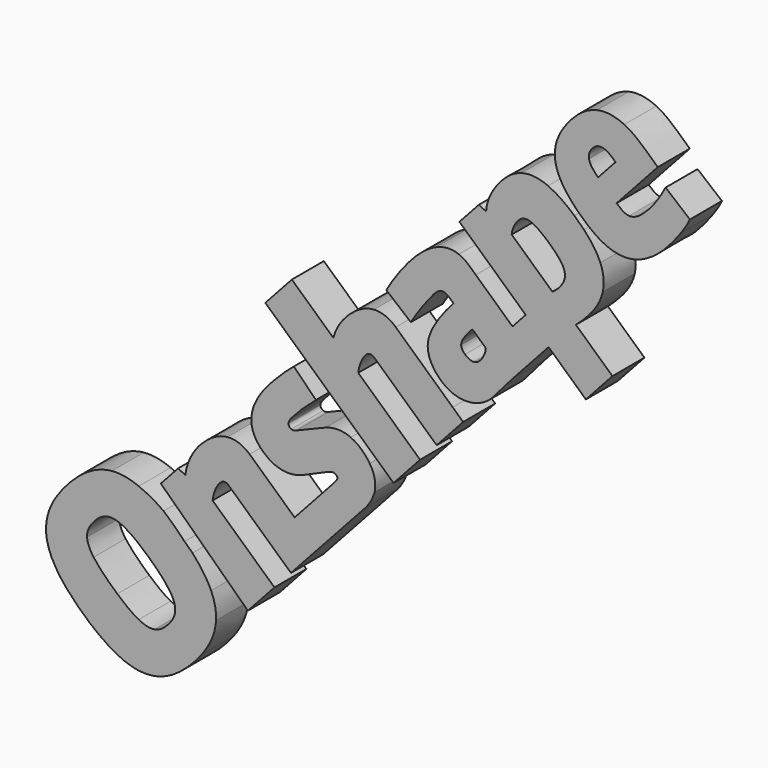
from build123d import *

# Parameters (mm, degrees)
F1_DEPTH = 25.4
F2_SCALE = 0.1


with BuildPart() as f1:
    # F0 (on Front) → F1 (new body)
    with BuildSketch(Plane.XZ):
        with BuildLine():
            add(Edge.make_bspline(
                [(-186.3335795772, -141.8998780122), (-182.3203460081, -135.5828726912), (-177.270055196, -129.9400571625), (-171.6060893213, -125.060540997)],
                knots=[0, 0, 0, 0, 1, 1, 1, 1], degree=3))
            add(Edge.make_bspline(
                [(-192.4062548026, -163.131805546), (-192.8977409931, -155.6106456725), (-190.3106596616, -148.1958110737), (-186.3335795772, -141.8998780122)],
                knots=[0, 0, 0, 0, 1, 1, 1, 1], degree=3))
            add(Edge.make_bspline(
                [(-186.1214083581, -181.2855566458), (-189.5246722325, -175.8111231187), (-192.02433604, -169.6204957792), (-192.4062548026, -163.131805546)],
                knots=[0, 0, 0, 0, 1, 1, 1, 1], degree=3))
            add(Edge.make_bspline(
                [(-172.0103726068, -198.2505024193), (-177.2091531801, -193.0402237145), (-182.2490226227, -187.5793476159), (-186.1214083581, -181.2855566458)],
                knots=[0, 0, 0, 0, 1, 1, 1, 1], degree=3))
            Line((-172.0103726068, -198.2505024193), (-164.8564078974, -204.7719595877))
            add(Edge.make_bspline(
                [(-137.367214436, -220.6926028721), (-147.8042508119, -218.0434983405), (-156.6891780706, -211.529390673), (-164.8564078974, -204.7719595877)],
                knots=[0, 0, 0, 0, 1, 1, 1, 1], degree=3))
            add(Edge.make_bspline(
                [(-123.8261235177, -221.2394306275), (-128.309722733, -222.0643705763), (-132.9557423877, -221.7963564173), (-137.367214436, -220.6926028721)],
                knots=[0, 0, 0, 0, 1, 1, 1, 1], degree=3))
            add(Edge.make_bspline(
                [(-107.5454284954, -213.6036837153), (-112.3283612391, -217.2798646679), (-117.8461070759, -220.1719548441), (-123.8261235177, -221.2394306275)],
                knots=[0, 0, 0, 0, 1, 1, 1, 1], degree=3))
            add(Edge.make_bspline(
                [(-93.46289911, -199.1723536193), (-97.552023663, -204.5206520123), (-102.2082548964, -209.4819701366), (-107.5454284954, -213.6036837153)],
                knots=[0, 0, 0, 0, 1, 1, 1, 1], degree=3))
            add(Edge.make_bspline(
                [(-84.5361900519, -177.3726127464), (-84.9521418769, -185.398702524), (-88.7038509466, -192.8494770242), (-93.46289911, -199.1723536193)],
                knots=[0, 0, 0, 0, 1, 1, 1, 1], degree=3))
            add(Edge.make_bspline(
                [(-87.6620913899, -161.7526501068), (-85.4610089257, -166.6298967979), (-84.2192902936, -172.0058447734), (-84.5361900519, -177.3726127464)],
                knots=[0, 0, 0, 0, 1, 1, 1, 1], degree=3))
            add(Edge.make_bspline(
                [(-99.4738299568, -144.5967820299), (-94.804184043, -149.751650096), (-90.5321288535, -155.3810525993), (-87.6620913896, -161.7526501071)],
                knots=[0, 0, 0, 0, 1, 1, 1, 1], degree=3))
            Line((-99.4738299568, -144.5967820299), (-104.5456169165, -139.7842371291))
            add(Edge.make_bspline(
                [(-117.805161024, -127.0958954942), (-113.1305007704, -131.0481075436), (-108.6808108014, -135.2697284302), (-104.5456169165, -139.7842371291)],
                knots=[0.1455251484, 0.1455251484, 0.1455251484, 0.1455251484, 1, 1, 1, 1], degree=3))
            add(Edge.make_bspline(
                [(-133.6496733332, -118.356015469), (-127.9851858279, -120.5066887798), (-122.7471910554, -123.6074225742), (-117.805161024, -127.0958954942)],
                knots=[0, 0, 0, 0, 0.8286120906, 0.8286120906, 0.8286120906, 0.8286120906], degree=3))
            add(Edge.make_bspline(
                [(-150.7351200425, -115.4185076774), (-144.9033816482, -114.8529074068), (-139.0211758381, -116.1147323266), (-133.6496733332, -118.356015469)],
                knots=[0, 0, 0, 0, 1, 1, 1, 1], degree=3))
            add(Edge.make_bspline(
                [(-171.6060893213, -125.060540997), (-165.7134872172, -120.0474328907), (-158.5569527162, -116.1016838058), (-150.7351200425, -115.4185076774)],
                knots=[0, 0, 0, 0, 1, 1, 1, 1], degree=3))
        make_face()
        with BuildLine():
            add(Edge.make_bspline(
                [(-164.0215183566, -149.8879219435), (-165.5515537441, -152.0886189167), (-166.5819251306, -154.7435311322), (-166.3995830889, -157.4583048079)],
                knots=[0, 0, 0, 0, 1, 1, 1, 1], degree=3))
            add(Edge.make_bspline(
                [(-154.743403467, -142.0748337897), (-158.6810122463, -143.4055337395), (-161.6338755153, -146.6172679524), (-164.0215183566, -149.8879219435)],
                knots=[0, 0, 0, 0, 1, 1, 1, 1], degree=3))
            add(Edge.make_bspline(
                [(-143.3677223564, -143.892725597), (-146.8066306191, -142.0979066173), (-150.9079068405, -140.8279853856), (-154.743403467, -142.0748337897)],
                knots=[0, 0, 0, 0, 1, 1, 1, 1], degree=3))
            add(Edge.make_bspline(
                [(-127.0946850663, -156.1281694835), (-132.1733372482, -151.6309657995), (-137.3301342263, -147.074177733), (-143.3677223564, -143.892725597)],
                knots=[0, 0, 0, 0, 1, 1, 1, 1], degree=3))
            add(Edge.make_bspline(
                [(-113.8781215962, -170.5235619133), (-117.5564882196, -165.1098760882), (-122.3422651061, -160.5808771006), (-127.0946850663, -156.1281694835)],
                knots=[0, 0, 0, 0, 1, 1, 1, 1], degree=3))
            add(Edge.make_bspline(
                [(-110.4685775328, -180.8476245359), (-110.1361535452, -177.1047853651), (-111.8674738828, -173.5618234489), (-113.8781215962, -170.5235619133)],
                knots=[0, 0, 0, 0, 1, 1, 1, 1], degree=3))
            add(Edge.make_bspline(
                [(-115.2231336412, -189.8760602981), (-112.9161187251, -187.356300394), (-110.7699248798, -184.3569981787), (-110.4685775328, -180.8476245359)],
                knots=[0, 0, 0, 0, 1, 1, 1, 1], degree=3))
            add(Edge.make_bspline(
                [(-123.5803878315, -195.1346117159), (-120.2234156528, -194.5635122299), (-117.476952996, -192.3004406785), (-115.2231336412, -189.8760602981)],
                knots=[0, 0, 0, 0, 1, 1, 1, 1], degree=3))
            add(Edge.make_bspline(
                [(-133.6225030578, -192.9079961962), (-130.565882574, -194.5056569402), (-127.0712314405, -195.7419830033), (-123.5803878315, -195.1346117159)],
                knots=[0, 0, 0, 0, 1, 1, 1, 1], degree=3))
            add(Edge.make_bspline(
                [(-147.2206417553, -182.946734793), (-142.9744392042, -186.6266600712), (-138.6015269799, -190.2523054826), (-133.6225030578, -192.9079961962)],
                knots=[0, 0, 0, 0, 1, 1, 1, 1], degree=3))
            add(Edge.make_bspline(
                [(-162.2234482454, -167.3685284771), (-157.953144679, -173.2135168292), (-152.5781992224, -178.1240706624), (-147.2206417553, -182.946734793)],
                knots=[0, 0, 0, 0, 1, 1, 1, 1], degree=3))
            add(Edge.make_bspline(
                [(-166.3995830889, -157.4583048079), (-166.1994168481, -161.1295119614), (-164.3012257319, -164.4361438247), (-162.2234482454, -167.3685284771)],
                knots=[0, 0, 0, 0, 1, 1, 1, 1], degree=3))
        make_face(mode=Mode.SUBTRACT)
    extrude(amount=F1_DEPTH)


with BuildPart() as f1b:
    # F0 (on Front) → F1, piece 2 (new body)
    with BuildSketch(Plane.XZ):
        with BuildLine():
            add(Edge.make_bspline(
                [(-104.0269171952, -102.5186534681), (-103.0185363732, -94.5344927855), (-99.1493138182, -86.9985430961), (-93.4138511594, -81.3759628132)],
                knots=[0, 0, 0, 0, 1, 1, 1, 1], degree=3))
            add(Edge.make_bspline(
                [(-108.59685638, -100.2721389629), (-107.0716003678, -101.0165961091), (-105.5526308686, -101.7740197126), (-104.0269171952, -102.5186534681)],
                knots=[0, 0, 0, 0, 1, 1, 1, 1], degree=3))
            add(Edge.make_bspline(
                [(-119.590771829, -112.333019437), (-115.9291670484, -108.3100975005), (-112.2616458663, -104.2924722261), (-108.59685638, -100.2721389629)],
                knots=[0.1099640002, 0.1099640002, 0.1099640002, 0.1099640002, 1, 1, 1, 1], degree=3))
            Line((-119.590771829, -112.333019437), (-64.3396623697, -165.4213721077))
            add(Edge.make_bspline(
                [(-47.4709335416, -146.9139282616), (-53.0905692269, -153.0862210673), (-58.7165407457, -159.2525319946), (-64.3396623697, -165.4213721077)],
                knots=[0, 0, 0, 0, 1, 1, 1, 1], degree=3))
            add(Edge.make_bspline(
                [(-86.7298018348, -111.1179996691), (-73.648909343, -123.0558711123), (-60.553234157, -134.9774884041), (-47.4709335416, -146.9139282616)],
                knots=[0, 0, 0, 0, 1, 1, 1, 1], degree=3))
            add(Edge.make_bspline(
                [(-81.2850453813, -99.0584633088), (-84.7007868402, -102.0865296901), (-86.1179528697, -106.7275708284), (-86.7298018348, -111.1179996691)],
                knots=[0, 0, 0, 0, 1, 1, 1, 1], degree=3))
            add(Edge.make_bspline(
                [(-76.6726321721, -99.2502335974), (-77.9134525607, -98.0427145572), (-79.9865889674, -97.8156124837), (-81.2850453813, -99.0584633088)],
                knots=[0, 0, 0, 0, 1, 1, 1, 1], degree=3))
            add(Edge.make_bspline(
                [(-36.9794918869, -135.4070845852), (-50.2197562262, -123.3650381783), (-63.4200222422, -111.2777567464), (-76.6726321721, -99.2502335974)],
                knots=[0, 0, 0, 0, 1, 1, 1, 1], degree=3))
            Line((-36.9794918869, -135.4070845852), (10.7094415482, -83.1542452068))
            ThreePointArc((10.7094415482, -83.1542452068), (13.9703165263, -78.3388120414), (16.1502305418, -72.9471817613))
            add(Edge.make_bspline(
                [(12.9697452164, -57.9974548358), (16.0202117772, -62.279915093), (17.1347231003, -67.7984244911), (16.1502305418, -72.9471817613)],
                knots=[0, 0, 0, 0, 0.9979912935, 0.9979912935, 0.9979912935, 0.9979912935], degree=3))
            add(Edge.make_bspline(
                [(0.924032819, -47.2817378042), (5.8801941055, -49.5430221709), (10.0758220833, -53.4022069652), (12.9697452164, -57.9974548357)],
                knots=[0, 0, 0, 0, 1, 1, 1, 1], degree=3))
            add(Edge.make_bspline(
                [(-15.2458249326, -47.1339931031), (-10.1069912559, -45.0981277965), (-4.1491711632, -44.9684755849), (0.924032819, -47.2817378042)],
                knots=[0, 0, 0, 0, 1, 1, 1, 1], degree=3))
            add(Edge.make_bspline(
                [(-33.6556794319, -54.717996145), (-27.5106040717, -52.2115212434), (-21.3954688882, -49.6303229943), (-15.2458249326, -47.1339931031)],
                knots=[0, 0, 0, 0, 1, 1, 1, 1], degree=3))
            add(Edge.make_bspline(
                [(-36.8228657697, -54.9479987426), (-35.8032251259, -55.4275546024), (-34.6491914766, -55.1042494958), (-33.6556794319, -54.717996145)],
                knots=[0, 0, 0, 0, 1, 1, 1, 1], degree=3))
            add(Edge.make_bspline(
                [(-38.6147396534, -52.3473853685), (-38.7425803678, -53.5197140492), (-37.7763536491, -54.4487340103), (-36.8228657697, -54.9479987426)],
                knots=[0, 0, 0, 0, 1, 1, 1, 1], degree=3))
            add(Edge.make_bspline(
                [(-36.8430255031, -48.906902719), (-37.6114530111, -49.9379982343), (-38.4621736965, -51.0309024775), (-38.6147396534, -52.3473853685)],
                knots=[0, 0, 0, 0, 1, 1, 1, 1], degree=3))
            add(Edge.make_bspline(
                [(-30.8488329047, -42.4606257324), (-32.9173448256, -44.541545258), (-35.0071967403, -46.6147316278), (-36.8430255031, -48.906902719)],
                knots=[0, 0, 0, 0, 1, 1, 1, 1], degree=3))
            add(Edge.make_bspline(
                [(-21.0882548771, -33.5620825793), (-24.5317304404, -36.3123865643), (-27.7198080269, -39.3634912938), (-30.8488329047, -42.4606257324)],
                knots=[0, 0, 0, 0, 1, 1, 1, 1], degree=3))
            add(Edge.make_bspline(
                [(-35.1705129202, -19.4744117034), (-30.4491652979, -24.1424071602), (-25.7799480067, -28.8638940814), (-21.0882548771, -33.5620825793)],
                knots=[0, 0, 0, 0, 1, 1, 1, 1], degree=3))
            add(Edge.make_bspline(
                [(-48.0307501863, -31.5689320305), (-43.9503212717, -27.3279028827), (-39.7571351701, -23.1729235766), (-35.1705129202, -19.4744117034)],
                knots=[0, 0, 0, 0, 1, 1, 1, 1], degree=3))
            add(Edge.make_bspline(
                [(-60.1871607722, -48.8455733716), (-57.4784873138, -42.2656485442), (-52.8956363916, -36.6756295909), (-48.0307501863, -31.5689320305)],
                knots=[0, 0, 0, 0, 1, 1, 1, 1], degree=3))
            add(Edge.make_bspline(
                [(-61.4595853021, -62.9346237377), (-62.7775570723, -58.2739294958), (-62.0165609067, -53.2593049183), (-60.1871607722, -48.8455733716)],
                knots=[0, 0, 0, 0, 1, 1, 1, 1], degree=3))
            add(Edge.make_bspline(
                [(-51.021358089, -76.2675240017), (-55.747564631, -73.0642008583), (-59.8927762739, -68.5344682232), (-61.4595853021, -62.9346237377)],
                knots=[0, 0, 0, 0, 1, 1, 1, 1], degree=3))
            add(Edge.make_bspline(
                [(-34.9925115244, -79.829251839), (-40.5383402923, -80.7998364986), (-46.3801910278, -79.4204096905), (-51.021358089, -76.2675240017)],
                knots=[0, 0, 0, 0, 1, 1, 1, 1], degree=3))
            add(Edge.make_bspline(
                [(-24.2087641288, -75.9698822801), (-27.718336833, -77.4683672983), (-31.1691890848, -79.2801478392), (-34.9925115244, -79.829251839)],
                knots=[0, 0, 0, 0, 1, 1, 1, 1], degree=3))
            add(Edge.make_bspline(
                [(-13.6338414919, -71.3511249188), (-17.1646529725, -72.8778854639), (-20.6834322163, -74.4319400757), (-24.2087641288, -75.9698822801)],
                knots=[0, 0, 0, 0, 1, 1, 1, 1], degree=3))
            add(Edge.make_bspline(
                [(-9.1248883004, -70.7501542726), (-10.6270138976, -70.196362966), (-12.2263606118, -70.7974102776), (-13.6338414919, -71.3511249188)],
                knots=[0, 0, 0, 0, 1, 1, 1, 1], degree=3))
            add(Edge.make_bspline(
                [(-7.5944507692, -73.3719032419), (-7.123755466, -72.2532086419), (-8.1530600304, -71.1514802885), (-9.1248883004, -70.7501542726)],
                knots=[0, 0, 0, 0, 1, 1, 1, 1], degree=3))
            add(Edge.make_bspline(
                [(-10.0578751822, -76.6729419076), (-9.1892369941, -75.6179552351), (-8.1340313249, -74.6533718099), (-7.5944507692, -73.3719032419)],
                knots=[0, 0, 0, 0, 1, 1, 1, 1], degree=3))
            Line((-10.0578751822, -76.6729419076), (-34.6424075458, -103.6469479196))
            add(Edge.make_bspline(
                [(-63.2052856346, -77.6181457004), (-53.6774546321, -86.2867116152), (-44.1667235328, -94.974299853), (-34.6424075458, -103.6469479196)],
                knots=[0, 0, 0, 0, 1, 1, 1, 1], degree=3))
            add(Edge.make_bspline(
                [(-77.2860778161, -72.5766296647), (-72.1230794302, -72.0218582436), (-67.0158740744, -74.2321422731), (-63.2052856346, -77.6181457004)],
                knots=[0, 0, 0, 0, 1, 1, 1, 1], degree=3))
            add(Edge.make_bspline(
                [(-93.4138511594, -81.3759628132), (-89.0461607337, -77.0175269006), (-83.5836712601, -73.2055792197), (-77.2860778161, -72.5766296647)],
                knots=[0, 0, 0, 0, 1, 1, 1, 1], degree=3))
        make_face()
    extrude(amount=F1_DEPTH)


with BuildPart() as f1c:
    # F0 (on Front) → F1, piece 3 (new body)
    with BuildSketch(Plane.XZ):
        with BuildLine():
            Line((-36.4250571252, 28.7122926186), (-53.2699459982, 10.2336401612))
            add(Edge.make_bspline(
                [(21.5105371095, -57.9324563384), (-3.420229409, -35.2147307047), (-28.3420107883, -12.4872017453), (-53.2699459982, 10.2336401612)],
                knots=[0.0814034481, 0.0814034481, 0.0814034481, 0.0814034481, 1, 1, 1, 1], degree=3))
            add(Edge.make_bspline(
                [(28.138642988, -63.9717571526), (25.9291967779, -61.9587415173), (23.7198316636, -59.9456374206), (21.5105371095, -57.9324563384)],
                knots=[0, 0, 0, 0, 0.0814034481, 0.0814034481, 0.0814034481, 0.0814034481], degree=3))
            add(Edge.make_bspline(
                [(44.9779113856, -45.4975359434), (39.3687292935, -51.6594923733), (33.7536535774, -57.8156981879), (28.138642988, -63.9717571526)],
                knots=[0, 0, 0, 0, 1, 1, 1, 1], degree=3))
            add(Edge.make_bspline(
                [(5.7269256012, -9.706043357), (18.8030225776, -21.644801849), (31.8992598138, -33.5614667039), (44.9779113856, -45.4975359434)],
                knots=[0, 0, 0, 0, 1, 1, 1, 1], degree=3))
            add(Edge.make_bspline(
                [(9.6864406527, 0.8438324176), (7.3678740804, -2.1904298278), (6.2138148453, -5.9593502377), (5.7269256012, -9.706043357)],
                knots=[0, 0, 0, 0, 1, 1, 1, 1], degree=3))
            add(Edge.make_bspline(
                [(13.1038096675, 3.212783877), (11.6434991606, 3.0747440047), (10.5606034059, 1.9130987848), (9.6864406527, 0.8438324176)],
                knots=[0, 0, 0, 0, 1, 1, 1, 1], degree=3))
            add(Edge.make_bspline(
                [(16.5618360749, 1.5336855621), (15.6042185734, 2.3823028838), (14.4648092444, 3.3164201154), (13.1038096675, 3.212783877)],
                knots=[0, 0, 0, 0, 1, 1, 1, 1], degree=3))
            add(Edge.make_bspline(
                [(55.4977060871, -33.9576287264), (42.5151494845, -22.1314299711), (29.5391328021, -10.2981324039), (16.5618360749, 1.5336855621)],
                knots=[0, 0, 0, 0, 1, 1, 1, 1], degree=3))
            add(Edge.make_bspline(
                [(72.3287713075, -15.5023599687), (66.7137052679, -21.6502227491), (61.1128632922, -27.8105708164), (55.4977060871, -33.9576287264)],
                knots=[0, 0, 0, 0, 1, 1, 1, 1], degree=3))
            Line((72.3287713075, -15.5023599687), (65.7117416995, -9.4442351376))
            add(Edge.make_bspline(
                [(29.5212275614, 23.5566762322), (41.573166052, 12.5438873086), (53.6623053651, 1.5712339484), (65.7117416995, -9.4442351376)],
                knots=[0, 0, 0, 0, 0.8451828726, 0.8451828726, 0.8451828726, 0.8451828726], degree=3))
            add(Edge.make_bspline(
                [(15.6732058771, 28.8904126535), (20.8004358997, 29.2731180225), (25.8056420173, 26.9815947282), (29.5212275618, 23.5566762351)],
                knots=[0, 0, 0, 0, 1, 1, 1, 1], degree=3))
            add(Edge.make_bspline(
                [(0.3373542449, 21.294500442), (4.5650562877, 25.1945775808), (9.799498997, 28.4885543317), (15.6732058771, 28.8904126535)],
                knots=[0, 0, 0, 0, 1, 1, 1, 1], degree=3))
            add(Edge.make_bspline(
                [(-10.0808760567, 4.7080523179), (-8.4427793006, 11.1505946086), (-4.5174240041, 16.8338139857), (0.3373542449, 21.294500442)],
                knots=[0, 0, 0, 0, 1, 1, 1, 1], degree=3))
            add(Edge.make_bspline(
                [(-36.4250571252, 28.7122926186), (-27.6419796964, 20.7127010925), (-18.8730551548, 12.6976217126), (-10.0808760567, 4.7080523179)],
                knots=[0, 0, 0, 0, 1, 1, 1, 1], degree=3))
        make_face()
    extrude(amount=F1_DEPTH)


with BuildPart() as f1d:
    # F0 (on Front) → F1, piece 4 (new body)
    with BuildSketch(Plane.XZ):
        with BuildLine():
            add(Edge.make_bspline(
                [(23.538676683, 42.3525661458), (27.5296645436, 49.4522063195), (32.3187107387, 56.0870698989), (37.5662704103, 62.3084268847)],
                knots=[0, 0, 0, 0, 1, 1, 1, 1], degree=3))
            add(Edge.make_bspline(
                [(39.0965605813, 29.440551497), (33.9110586987, 33.7452488712), (28.7243910577, 38.0483280925), (23.538676683, 42.3525661458)],
                knots=[0, 0, 0, 0, 1, 1, 1, 1], degree=3))
            add(Edge.make_bspline(
                [(53.7398646176, 49.9217051209), (48.2573458058, 43.5534104796), (43.4273776427, 36.6359369506), (39.0965605813, 29.440551497)],
                knots=[0, 0, 0, 0, 1, 1, 1, 1], degree=3))
            add(Edge.make_bspline(
                [(59.970694713, 53.2699829217), (57.4009093156, 53.670362841), (55.3476619148, 51.6294889319), (53.7398646176, 49.9217051209)],
                knots=[0, 0, 0, 0, 1, 1, 1, 1], degree=3))
            add(Edge.make_bspline(
                [(66.1519658085, 48.7518940263), (64.1722302441, 50.3280007371), (62.5734874327, 52.7099055558), (59.970694713, 53.2699829217)],
                knots=[0, 0, 0, 0, 1, 1, 1, 1], degree=3))
            add(Edge.make_bspline(
                [(53.6001252992, 31.7878441426), (56.9973257314, 37.9752751189), (61.422795787, 43.5358459998), (66.1519658085, 48.7518940263)],
                knots=[0, 0, 0, 0, 1, 1, 1, 1], degree=3))
            add(Edge.make_bspline(
                [(49.948665804, 17.6446589816), (49.3012395752, 22.6301194425), (51.3106837741, 27.4742879909), (53.6001252992, 31.7878441426)],
                knots=[0, 0, 0, 0, 1, 1, 1, 1], degree=3))
            add(Edge.make_bspline(
                [(59.5176281341, 2.0162507766), (54.7068241261, 5.9182004534), (50.6954994698, 11.3507558321), (49.948665804, 17.6446589816)],
                knots=[0, 0, 0, 0, 1, 1, 1, 1], degree=3))
            ThreePointArc((59.5176281341, 2.0162507766), (75.787713247, -3.174741597), (91.1100336458, 4.36770953))
            add(Edge.make_bspline(
                [(103.6178427131, 18.8131025417), (99.5584111208, 13.9050622716), (95.5138886757, 8.9732232022), (91.1100336458, 4.36770953)],
                knots=[0, 0, 0, 0, 1, 1, 1, 1], degree=3))
            add(Edge.make_bspline(
                [(126.5594451654, 43.9887541749), (118.9110271994, 35.5976590498), (111.2531060555, 27.2153300021), (103.6178427135, 18.8131025446)],
                knots=[0, 0, 0, 0, 1, 1, 1, 1], degree=3))
            add(Edge.make_bspline(
                [(150.216579711, 22.4253278451), (142.3290363285, 29.6112778969), (134.4458492298, 36.8017805235), (126.5594451654, 43.9887541749)],
                knots=[0, 0, 0, 0, 1, 1, 1, 1], degree=3))
            add(Edge.make_bspline(
                [(167.0896311154, 40.9376643214), (161.4700045848, 34.762063672), (155.8424300773, 28.5942582069), (150.216579711, 22.4253278451)],
                knots=[0, 0, 0, 0, 1, 1, 1, 1], degree=3))
            add(Edge.make_bspline(
                [(143.9026360767, 62.0706275177), (151.6341054639, 55.0291176983), (159.3585607873, 47.979875827), (167.0896311154, 40.9376643214)],
                knots=[0, 0, 0, 0, 1, 1, 1, 1], degree=3))
            add(Edge.make_bspline(
                [(151.8182472276, 69.863525628), (149.3245100739, 67.1241915703), (146.7251293144, 64.4714341444), (143.9026360767, 62.0706275177)],
                knots=[0, 0, 0, 0, 1, 1, 1, 1], degree=3))
            add(Edge.make_bspline(
                [(160.9542654012, 85.9400980387), (159.5589053878, 79.82736519), (156.0107693682, 74.4309288292), (151.8182472276, 69.863525628)],
                knots=[0, 0, 0, 0, 1, 1, 1, 1], degree=3))
            add(Edge.make_bspline(
                [(159.3987165906, 101.8297493453), (161.4958026808, 96.8526339354), (162.1970978578, 91.2264947144), (160.9542654012, 85.9400980387)],
                knots=[0, 0, 0, 0, 1, 1, 1, 1], degree=3))
            add(Edge.make_bspline(
                [(149.0379829463, 116.8894376304), (153.2631928846, 112.4450749721), (157.0245813571, 107.5084853597), (159.3987165901, 101.8297493458)],
                knots=[0.188768465, 0.188768465, 0.188768465, 0.188768465, 1, 1, 1, 1], degree=3))
            Line((149.0379829463, 116.8894376304), (143.0024300827, 122.6735786375))
            add(Edge.make_bspline(
                [(126.1917991942, 134.005016435), (132.4353448476, 131.2836371984), (137.9212454453, 127.1753277882), (143.0024300827, 122.6735786375)],
                knots=[0, 0, 0, 0, 0.8324269042, 0.8324269042, 0.8324269042, 0.8324269042], degree=3))
            add(Edge.make_bspline(
                [(109.3715453434, 135.6610235984), (114.941701507, 137.2842822553), (120.9553851598, 136.2904668225), (126.1917991951, 134.0050164342)],
                knots=[0, 0, 0, 0, 1, 1, 1, 1], degree=3))
            add(Edge.make_bspline(
                [(93.3174877906, 123.0932798658), (97.3554584774, 128.6215985238), (102.6226536278, 133.7501757477), (109.3715453434, 135.6610235984)],
                knots=[0, 0, 0, 0, 1, 1, 1, 1], degree=3))
            add(Edge.make_bspline(
                [(86.8766596457, 106.8861957139), (87.2366746082, 112.8080857005), (89.8949225278, 118.3413626357), (93.3174877906, 123.0932798658)],
                knots=[0, 0, 0, 0, 1, 1, 1, 1], degree=3))
            add(Edge.make_bspline(
                [(82.2998365971, 109.1314928451), (83.8217123646, 108.3765410232), (85.3461982982, 107.6261868736), (86.8766596457, 106.8861957139)],
                knots=[0, 0, 0, 0, 1, 1, 1, 1], degree=3))
            add(Edge.make_bspline(
                [(69.9529200295, 95.5935877654), (74.0670705087, 100.1069150936), (78.1751076043, 104.6264683251), (82.2998365971, 109.1314928451)],
                knots=[0, 0, 0, 0, 1, 1, 1, 1], degree=3))
            add(Edge.make_bspline(
                [(112.0203512176, 57.237686301), (98.0034907779, 70.0291858642), (83.9719690843, 82.8045267913), (69.9529200295, 95.5935877654)],
                knots=[0, 0, 0, 0, 1, 1, 1, 1], degree=3))
            add(Edge.make_bspline(
                [(103.6488648894, 48.0542605404), (106.4382788734, 51.1154603198), (109.228740093, 54.1765646978), (112.0203512176, 57.237686301)],
                knots=[0, 0, 0, 0, 1, 1, 1, 1], degree=3))
            add(Edge.make_bspline(
                [(80.308229807, 69.326076974), (88.0891123415, 62.2362576713), (95.8632358253, 55.1390237667), (103.6488648894, 48.0542605404)],
                knots=[0, 0, 0, 0, 1, 1, 1, 1], degree=3))
            add(Edge.make_bspline(
                [(69.6230947104, 77.3268750254), (73.8844789049, 75.7347189646), (76.9780230464, 72.2634819802), (80.308229807, 69.326076974)],
                knots=[0, 0, 0, 0, 1, 1, 1, 1], degree=3))
            add(Edge.make_bspline(
                [(54.9167885421, 76.466944447), (59.4733222715, 78.5601484726), (64.8852842694, 79.2424578963), (69.6230947104, 77.3268750254)],
                knots=[0, 0, 0, 0, 1, 1, 1, 1], degree=3))
            add(Edge.make_bspline(
                [(37.5662704103, 62.3084268847), (42.4551695941, 67.9688595219), (48.0269148461, 73.3370781105), (54.9167885421, 76.466944447)],
                knots=[0, 0, 0, 0, 1, 1, 1, 1], degree=3))
        make_face()
        with BuildLine():
            add(Edge.make_bspline(
                [(72.951575649, 31.9197630655), (72.0041658071, 30.4850334673), (71.0977995725, 28.8886767087), (71.0786211774, 27.1236742316)],
                knots=[0, 0, 0, 0, 1, 1, 1, 1], degree=3))
            add(Edge.make_bspline(
                [(78.159998026, 38.2222682896), (76.3408788912, 36.1927445545), (74.4864105331, 34.1768506439), (72.951575649, 31.9197630655)],
                knots=[0, 0, 0, 0, 1, 1, 1, 1], degree=3))
            add(Edge.make_bspline(
                [(86.7018386042, 30.437326428), (83.8547561765, 33.0328256207), (81.0096410585, 35.6301058971), (78.159998026, 38.2222682896)],
                knots=[0, 0, 0, 0, 1, 1, 1, 1], degree=3))
            add(Edge.make_bspline(
                [(84.1308381813, 23.5794020401), (85.5458748425, 25.5907937622), (86.5623223863, 27.9585912215), (86.7018386042, 30.437326428)],
                knots=[0, 0, 0, 0, 1, 1, 1, 1], degree=3))
            add(Edge.make_bspline(
                [(78.9965725319, 20.2633947058), (81.1347076585, 20.41604581), (82.8930293581, 21.9329967698), (84.1308381813, 23.5794020401)],
                knots=[0, 0, 0, 0, 1, 1, 1, 1], degree=3))
            add(Edge.make_bspline(
                [(73.5361279609, 22.6251096207), (75.0333823977, 21.3050853456), (76.9179744758, 20.1191608845), (78.9965725319, 20.2633947058)],
                knots=[0, 0, 0, 0, 1, 1, 1, 1], degree=3))
            add(Edge.make_bspline(
                [(71.0786211774, 27.1236742316), (71.1218429512, 25.3366739281), (72.2655762686, 23.7862143664), (73.5361279609, 22.6251096207)],
                knots=[0, 0, 0, 0, 1, 1, 1, 1], degree=3))
        make_face(mode=Mode.SUBTRACT)
        with BuildLine():
            add(Edge.make_bspline(
                [(103.1263465188, 99.2389215292), (111.7427062582, 91.3981471718), (120.3444356475, 83.541323486), (128.9587999774, 75.6982093741)],
                knots=[0, 0, 0, 0, 1, 1, 1, 1], degree=3))
            add(Edge.make_bspline(
                [(108.6880772794, 109.6751219219), (105.4995983726, 107.1625449588), (103.5589343397, 103.2430178547), (103.1263465188, 99.2389215292)],
                knots=[0, 0, 0, 0, 1, 1, 1, 1], degree=3))
            add(Edge.make_bspline(
                [(114.8125290327, 110.5069294976), (112.7876227034, 111.2248250074), (110.4026685117, 111.0424907856), (108.6880772794, 109.6751219219)],
                knots=[0, 0, 0, 0, 1, 1, 1, 1], degree=3))
            add(Edge.make_bspline(
                [(124.01680527, 104.7175750569), (121.1979714104, 106.990368387), (118.2802054157, 109.3185303278), (114.8125290327, 110.5069294976)],
                knots=[0, 0, 0, 0, 1, 1, 1, 1], degree=3))
            add(Edge.make_bspline(
                [(133.7940050522, 95.0711551814), (130.9751010185, 98.6998313434), (127.5021314535, 101.750054619), (124.01680527, 104.7175750569)],
                knots=[0, 0, 0, 0, 1, 1, 1, 1], degree=3))
            add(Edge.make_bspline(
                [(136.9514700996, 87.3322793818), (136.9731785583, 90.2138491244), (135.4847612874, 92.8375056305), (133.7940050522, 95.0711551814)],
                knots=[0, 0, 0, 0, 1, 1, 1, 1], degree=3))
            add(Edge.make_bspline(
                [(134.00523318, 80.3196347735), (135.607447367, 82.3082911421), (136.9344963029, 84.713756061), (136.9514700996, 87.3322793818)],
                knots=[0, 0, 0, 0, 1, 1, 1, 1], degree=3))
            add(Edge.make_bspline(
                [(128.9587999774, 75.6982093741), (130.8897291439, 76.9313329391), (132.5540873125, 78.552499457), (134.00523318, 80.3196347735)],
                knots=[0, 0, 0, 0, 1, 1, 1, 1], degree=3))
        make_face(mode=Mode.SUBTRACT)
    extrude(amount=F1_DEPTH)


with BuildPart() as f1e:
    # F0 (on Front) → F1, piece 5 (new body)
    with BuildSketch(Plane.XZ):
        with BuildLine():
            add(Edge.make_bspline(
                [(132.2617095508, 162.2819686472), (134.2197131154, 167.4165396317), (137.4765159133, 171.9567563369), (141.1543174713, 175.9989167842)],
                knots=[0, 0, 0, 0, 1, 1, 1, 1], degree=3))
            add(Edge.make_bspline(
                [(131.3106048367, 147.0176666472), (129.9924222168, 152.0409479985), (130.3818512802, 157.4512731911), (132.2617095508, 162.2819686472)],
                knots=[0, 0, 0, 0, 1, 1, 1, 1], degree=3))
            add(Edge.make_bspline(
                [(142.016848746, 129.1300638473), (137.3253770171, 134.2872307058), (133.0769673367, 140.1735421964), (131.3106048367, 147.0176666472)],
                knots=[0, 0, 0, 0, 1, 1, 1, 1], degree=3))
            add(Edge.make_bspline(
                [(145.5593498003, 125.4784906307), (144.3514457135, 126.6715154589), (143.1722830883, 127.8925398925), (142.016848746, 129.1300638473)],
                knots=[0.7673008911, 0.7673008911, 0.7673008911, 0.7673008911, 1, 1, 1, 1], degree=3))
            Line((145.5593498003, 125.4784906307), (151.7636413621, 119.8794540659))
            add(Edge.make_bspline(
                [(158.6253947101, 115.0024722361), (156.2216463338, 116.4648554533), (153.9419774866, 118.1079095632), (151.7636413621, 119.8794540659)],
                knots=[0, 0, 0, 0, 0.3852391898, 0.3852391898, 0.3852391898, 0.3852391898], degree=3))
            add(Edge.make_bspline(
                [(175.9924895928, 109.9895755462), (169.8434575052, 109.708266654), (163.8284216281, 111.8559395118), (158.6253947101, 115.0024722361)],
                knots=[0, 0, 0, 0, 1, 1, 1, 1], degree=3))
            add(Edge.make_bspline(
                [(192.6480177942, 116.1673337139), (187.7685608732, 112.7172062757), (182.0331546743, 110.1947625488), (175.9924895928, 109.9895755462)],
                knots=[0, 0, 0, 0, 1, 1, 1, 1], degree=3))
            add(Edge.make_bspline(
                [(210.5510523319, 135.0568045731), (205.484125731, 127.9959687795), (199.7836145204, 121.2231347704), (192.6480177942, 116.1673337139)],
                knots=[0, 0, 0, 0, 1, 1, 1, 1], degree=3))
            add(Edge.make_bspline(
                [(216.2663128613, 144.4795414943), (214.7362521371, 141.1271708461), (212.6673185489, 138.0586421708), (210.5510523319, 135.0568045731)],
                knots=[0, 0, 0, 0, 1, 1, 1, 1], degree=3))
            add(Edge.make_bspline(
                [(200.8234102395, 157.2951269963), (205.9673194956, 153.018927578), (211.1262188452, 148.7607179561), (216.2663128613, 144.4795414943)],
                knots=[0, 0, 0, 0, 1, 1, 1, 1], degree=3))
            add(Edge.make_bspline(
                [(185.9133076927, 137.5486366796), (192.2431721073, 142.9560187226), (196.9054455582, 150.0200020679), (200.8234102395, 157.2951269963)],
                knots=[0, 0, 0, 0, 1, 1, 1, 1], degree=3))
            add(Edge.make_bspline(
                [(177.6331074186, 133.9377140232), (180.7942720185, 133.7202466981), (183.5868411132, 135.6228179163), (185.9133076927, 137.5486366796)],
                knots=[0, 0, 0, 0, 1, 1, 1, 1], degree=3))
            add(Edge.make_bspline(
                [(169.7597154672, 138.443669326), (172.042322866, 136.4783578324), (174.4834828224, 134.216666315), (177.6331074186, 133.9377140232)],
                knots=[0, 0, 0, 0, 1, 1, 1, 1], degree=3))
            add(Edge.make_bspline(
                [(195.8722968891, 167.0918164794), (187.1691007565, 157.5410778212), (178.4614872816, 147.9948814988), (169.7597154672, 138.443669326)],
                knots=[0, 0, 0, 0, 1, 1, 1, 1], degree=3))
            add(Edge.make_bspline(
                [(174.608694232, 183.966262787), (182.8884914414, 180.0136591321), (189.0687372178, 173.0364195587), (195.8722968891, 167.0918164794)],
                knots=[0, 0, 0, 0, 1, 1, 1, 1], degree=3))
            add(Edge.make_bspline(
                [(157.2016482331, 186.3680059079), (163.0554221012, 187.7660611945), (169.272280452, 186.6015041385), (174.608694232, 183.966262787)],
                knots=[0, 0, 0, 0, 1, 1, 1, 1], degree=3))
            add(Edge.make_bspline(
                [(141.1543174713, 175.9989167842), (145.4288358087, 180.7923776309), (150.8479307769, 184.8937514143), (157.2016482331, 186.3680059079)],
                knots=[0, 0, 0, 0, 1, 1, 1, 1], degree=3))
        make_face()
        with BuildLine():
            add(Edge.make_bspline(
                [(152.1993117139, 157.4490206464), (152.9549109975, 154.0101978289), (155.6141344832, 151.4564429889), (157.9589340409, 149.0086995711)],
                knots=[0, 0, 0, 0, 1, 1, 1, 1], degree=3))
            add(Edge.make_bspline(
                [(155.7335470215, 165.3260503613), (153.467705402, 163.4446046831), (151.5641496551, 160.5125136465), (152.1993117139, 157.4490206464)],
                knots=[0, 0, 0, 0, 1, 1, 1, 1], degree=3))
            add(Edge.make_bspline(
                [(161.3923591447, 166.4051181492), (159.4717950629, 166.9930457306), (157.2886001049, 166.6118740467), (155.7335470215, 165.3260503613)],
                knots=[0, 0, 0, 0, 1, 1, 1, 1], degree=3))
            add(Edge.make_bspline(
                [(169.079104524, 161.2029140552), (166.8162550479, 163.3070437752), (164.4195116682, 165.5036713553), (161.3923591447, 166.4051181492)],
                knots=[0, 0, 0, 0, 1, 1, 1, 1], degree=3))
            add(Edge.make_bspline(
                [(157.9589340409, 149.0086995711), (161.6720344778, 153.0666966142), (165.3735662818, 157.1361330803), (169.079104524, 161.2029140552)],
                knots=[0, 0, 0, 0, 1, 1, 1, 1], degree=3))
        make_face(mode=Mode.SUBTRACT)
    extrude(amount=F1_DEPTH)


with BuildPart() as f1c_1:
    # F2: moved
    add(f1c.part.scale(F2_SCALE))


with BuildPart() as f1e_1:
    # F2: moved
    add(f1e.part.scale(F2_SCALE))


with BuildPart() as f1b_1:
    # F2: moved
    add(f1b.part.scale(F2_SCALE))


with BuildPart() as f1_1:
    # F2: moved
    add(f1.part.scale(F2_SCALE))


with BuildPart() as f1d_1:
    # F2: moved
    add(f1d.part.scale(F2_SCALE))


solid = Compound([f1c_1.part, f1e_1.part, f1b_1.part, f1_1.part, f1d_1.part])
